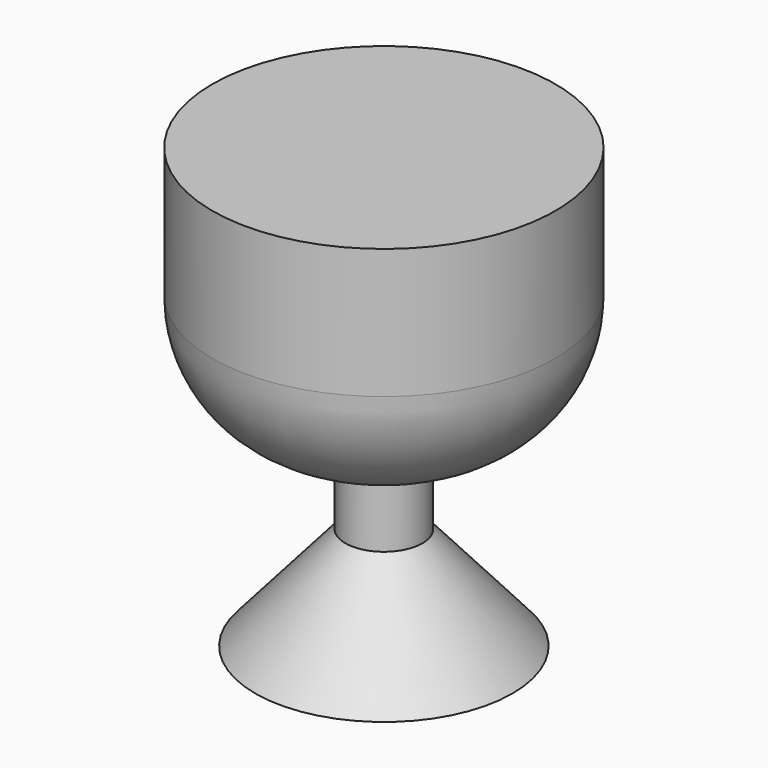
from build123d import *

# Parameters (mm, degrees)
F3_R      = 15
F1_R      = 50
F4_FACE_R = 15
F6_R      = 15


with BuildPart() as f4:
    # F3 (on offset) → F4 section 0
    with BuildSketch(Plane.XY.offset(-30)):
        Circle(F3_R)
    # F1 (on offset) → F4 section 1
    with BuildSketch(Plane.XY.offset(-70)):
        Circle(F1_R)
    loft()

    # F4_face (on face) → F7 section 0
    with BuildSketch(Plane.XY.offset(-30)):
        Circle(F4_FACE_R)
    # F6 (on offset) → F7 section 1
    with BuildSketch(Plane.XY):
        Circle(F6_R)
    loft()

    # F8 (on Front) → F9 (revolve)
    with BuildSketch(Plane.XZ):
        with BuildLine():
            Line((0, 0), (0, 100.507477))
            Line((0, 100.507477), (-66.673411, 100.507477))
            Line((-66.673411, 100.507477), (-66.673411, 50))
            ThreePointArc((-66.673411, 50), (-52.02875, 14.644661), (-16.673411, 0))
            Line((-16.673411, 0), (0, 0))
        make_face()
    revolve(axis=Axis((0, 0, 50.253739), (0, 0, -1)))


solid = f4.part
